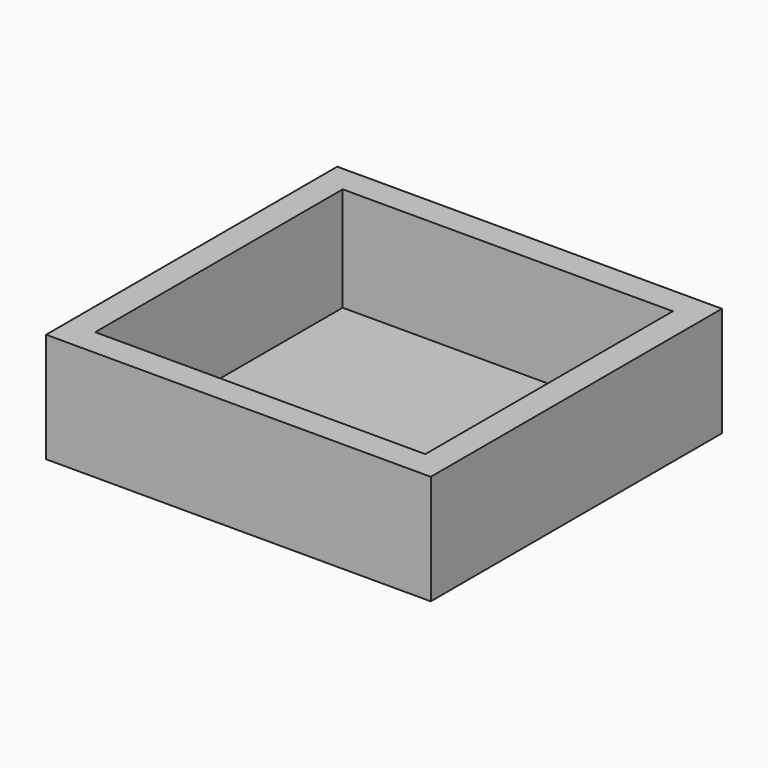
from build123d import *

# Parameters (mm, degrees)
F0_W     = 1790.7
F0_H     = 1694.18
F0_W_2   = 1536.7
F0_H_2   = 1440.18
F1_DEPTH = 485.14
F2_DEPTH = 25.4


with BuildPart() as f1:
    # F0 (on Top) → F1 (new body)
    with BuildSketch(Plane.XY):
        with Locations((768.35, 720.09)):
            Rectangle(F0_W, F0_H)
        with Locations((768.35, 720.09)):
            Rectangle(F0_W_2, F0_H_2, mode=Mode.SUBTRACT)
    extrude(amount=F1_DEPTH)

    # F0 (on Top) → F2 (join)
    with BuildSketch(Plane.XY):
        with Locations((768.35, 720.09)):
            Rectangle(F0_W, F0_H)
        with Locations((768.35, 720.09)):
            Rectangle(F0_W_2, F0_H_2, mode=Mode.SUBTRACT)
        with Locations((768.35, 720.09)):
            Rectangle(F0_W_2, F0_H_2)
    extrude(amount=-F2_DEPTH)


solid = f1.part
